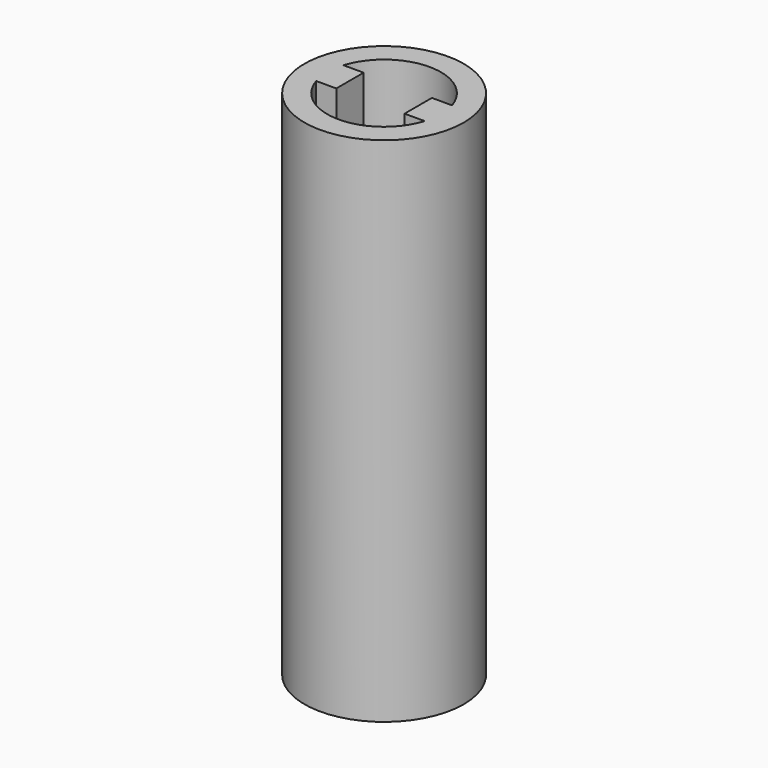
from build123d import *

# Parameters (mm, degrees)
F0_R     = 7
F1_DEPTH = 45
F3_DEPTH = 25
F4_R     = 3.65
F5_DEPTH = 10
F7_DEPTH = 4


with BuildPart() as f1:
    # F0 (on Top) → F1 (new body)
    with BuildSketch(Plane.XY):
        Circle(F0_R)
    extrude(amount=F1_DEPTH)

    # F2 (on face) → F3 (cut)
    with BuildSketch(Plane.XY.offset(45)):
        with BuildLine():
            ThreePointArc((4.769696, 1.5), (0, 5), (-4.769696, 1.5))
            Line((-4.769696, 1.5), (-3, 1.5))
            Line((-3, 1.5), (-3, -1.5))
            Line((-3, -1.5), (-4.769696, -1.5))
            ThreePointArc((-4.769696, -1.5), (0, -5), (4.769696, -1.5))
            Line((4.769696, -1.5), (3, -1.5))
            Line((3, -1.5), (3, 1.5))
            Line((3, 1.5), (4.769696, 1.5))
        make_face()
    extrude(amount=-F3_DEPTH, mode=Mode.SUBTRACT)

    # F4 (on face) → F5 (cut)
    with BuildSketch(Plane(origin=(0, 0, 0), x_dir=(1, 0, 0), z_dir=(0, 0, -1))):
        Circle(F4_R)
    extrude(amount=-F5_DEPTH, mode=Mode.SUBTRACT)

    # F6 (on face) → F7 (cut)
    with BuildSketch(Plane(origin=(0, 0, 10), x_dir=(1, 0, 0), z_dir=(0, 0, -1))):
        with BuildLine():
            Line((-1.5, 2), (-1.5, -2))
            ThreePointArc((-1.5, -2), (2.5, 0), (-1.5, 2))
        make_face()
    extrude(amount=-F7_DEPTH, mode=Mode.SUBTRACT)


solid = f1.part
